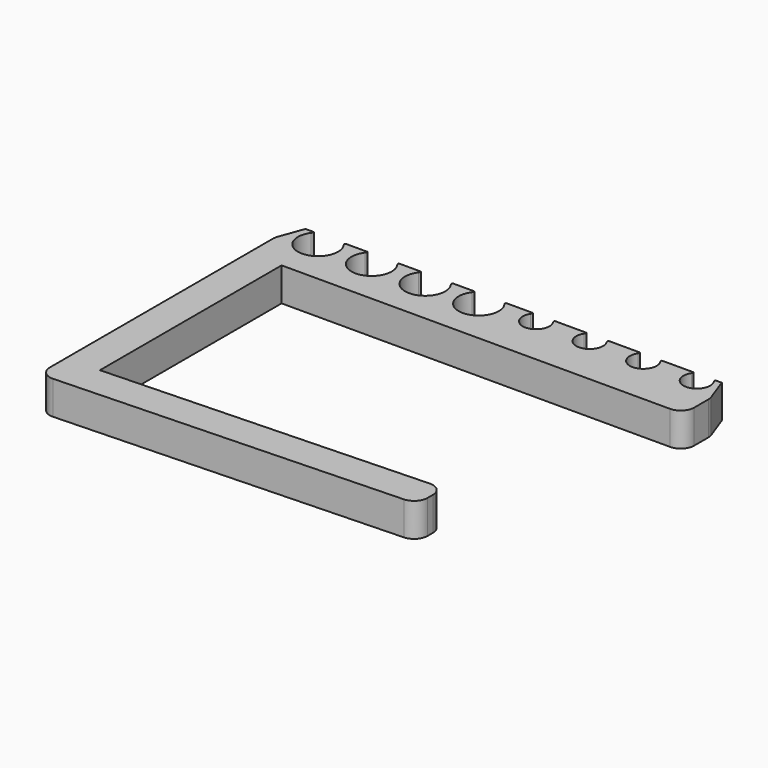
from build123d import *

# Parameters (mm, degrees)
F1_DEPTH = 5
F2_R     = 2
F3_R     = 0.4


with BuildPart() as f1:
    # F0 (on Top) → F1 (new body)
    with BuildSketch(Plane.XY):
        with BuildLine():
            Line((49.969541, 1.744975), (0, 0))
            Line((0, 0), (0, 33.9))
            Line((0, 33.9), (60, 33.9))
            Line((60, 33.9), (60, 38.9))
            Line((60, 38.9), (58.471325, 43.1))
            Line((58.471325, 43.1), (57.053565, 43.1))
            ThreePointArc((57.053565, 43.1), (56, 39.4), (54.946435, 43.1))
            Line((54.946435, 43.1), (49.053565, 43.1))
            ThreePointArc((49.053565, 43.1), (48, 39.4), (46.946435, 43.1))
            Line((46.946435, 43.1), (41.053565, 43.1))
            ThreePointArc((41.053565, 43.1), (40, 39.4), (38.946435, 43.1))
            Line((38.946435, 43.1), (33.053565, 43.1))
            ThreePointArc((33.053565, 43.1), (32, 39.4), (30.946435, 43.1))
            Line((30.946435, 43.1), (25.8, 43.1))
            ThreePointArc((25.8, 43.1), (24, 37.7), (22.2, 43.1))
            Line((22.2, 43.1), (17.8, 43.1))
            ThreePointArc((17.8, 43.1), (16, 37.7), (14.2, 43.1))
            Line((14.2, 43.1), (9.8, 43.1))
            ThreePointArc((9.8, 43.1), (8, 37.7), (6.2, 43.1))
            Line((6.2, 43.1), (1.8, 43.1))
            ThreePointArc((1.8, 43.1), (0, 37.7), (-1.8, 43.1))
            Line((-1.8, 43.1), (-3.471325, 43.1))
            Line((-3.471325, 43.1), (-5, 38.9))
            Line((-5, 38.9), (-5, -5.177652))
            Line((-5, -5.177652), (49.969541, -3.258073))
            Line((49.969541, -3.258073), (49.969541, 1.744975))
        make_face()
    extrude(amount=F1_DEPTH)

    # F2
    f2_edges = [f1.edges().sort_by_distance(p)[0] for p in [
        (49.969541, 1.744975, 2.5),
        (49.969541, -3.258073, 2.5),
        (-5, -5.177652, 2.5),
        (-5, 38.9, 2.5),
        (60, 33.9, 2.5),
        (60, 38.9, 2.5),
    ]]
    fillet(f2_edges, radius=F2_R)

    # F3
    f3_edges = [f1.edges().sort_by_distance(p)[0] for p in [
        (-1.8, 43.1, 2.5),
        (-3.471325, 43.1, 2.5),
        (-2.635663, 43.1, 0),
        (-2.635663, 43.1, 5),
        (6.2, 43.1, 2.5),
        (1.8, 43.1, 2.5),
        (4, 43.1, 0),
        (4, 43.1, 5),
        (14.2, 43.1, 2.5),
        (9.8, 43.1, 2.5),
        (12, 43.1, 0),
        (12, 43.1, 5),
        (22.2, 43.1, 2.5),
        (17.8, 43.1, 2.5),
        (20, 43.1, 0),
        (20, 43.1, 5),
        (30.946435, 43.1, 2.5),
        (25.8, 43.1, 2.5),
        (28.373217, 43.1, 0),
        (28.373217, 43.1, 5),
        (38.946435, 43.1, 2.5),
        (33.053565, 43.1, 2.5),
        (36, 43.1, 0),
        (36, 43.1, 5),
        (46.946435, 43.1, 2.5),
        (41.053565, 43.1, 2.5),
        (44, 43.1, 0),
        (44, 43.1, 5),
        (54.946435, 43.1, 2.5),
        (49.053565, 43.1, 2.5),
        (52, 43.1, 0),
        (52, 43.1, 5),
        (58.471325, 43.1, 2.5),
        (57.053565, 43.1, 2.5),
        (57.762445, 43.1, 0),
        (57.762445, 43.1, 5),
    ]]
    fillet(f3_edges, radius=F3_R)


solid = f1.part
